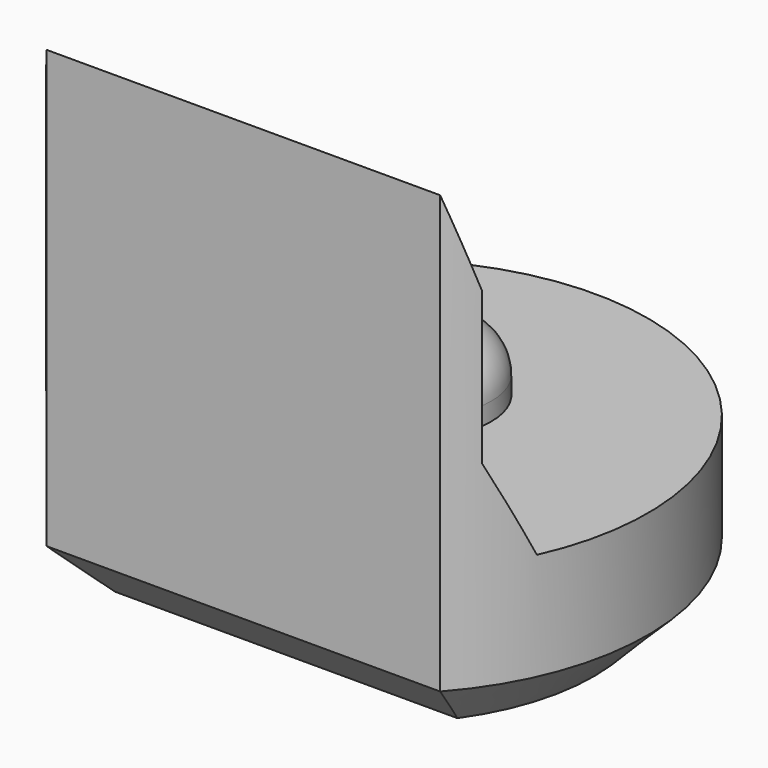
from build123d import *

# Parameters (mm, degrees)
PAD003_DEPTH         = 5.5
POCKET004_DEPTH      = 2.951
POCKET004_DEPTH_BACK = 2.951
SKETCH013_R          = 0.8
PAD006_DEPTH         = 0.7
FILLET_R             = 0.5
CHAMFER004_SIZE      = 0.6


with BuildPart() as part:
    # Sketch004 → Pad003 (new body)
    with BuildSketch(Plane.XY):
        with BuildLine():
            ThreePointArc((2.2, -1.9653244007), (0, 2.95), (-2.2, -1.9653244007))
            Line((-2.2, -1.9653244007), (2.2, -1.9653244007))
        make_face()
    extrude(amount=PAD003_DEPTH)

    # Sketch014 → Pocket004 (cut, two sides)
    with BuildSketch(Plane.YZ) as pocket004_sk:
        Polygon((-1.97, 5.5), (-1.67, 4.5), (-1.67, 2.8), (-1.22, 1.8), (4, 1.8), (4, 5.5), align=None)
    extrude(amount=-POCKET004_DEPTH, mode=Mode.SUBTRACT)
    extrude(pocket004_sk.sketch, amount=POCKET004_DEPTH_BACK, mode=Mode.SUBTRACT)

    # Sketch013 (on Face7 of Pocket004) → Pad006 (join)
    with BuildSketch(Plane.XY.offset(1.8)):
        with Locations((0, 0.5)):
            Circle(SKETCH013_R)
    extrude(amount=PAD006_DEPTH)

    # Fillet
    fillet_edges = [part.edges().sort_by_distance(p)[0] for p in [
        (-0.8, 0.5, 2.5),
    ]]
    fillet(fillet_edges, radius=FILLET_R)

    # Chamfer004
    chamfer004_edges = [part.edges().sort_by_distance(p)[0] for p in [
        (0, 2.95, 0),
        (0, -1.965324, 0),
    ]]
    chamfer(chamfer004_edges, length=CHAMFER004_SIZE)


with BuildPart() as part_1:
    # Body022 placement: moved
    add(part.part.moved(Location((0, 18, 0))))


solid = part_1.part
